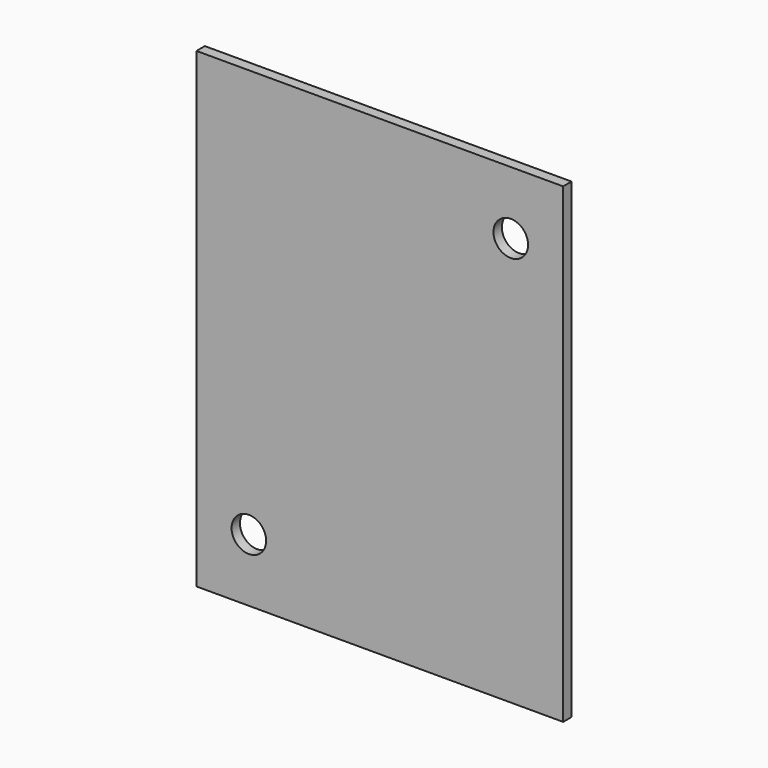
from build123d import *

# Parameters (mm, degrees)
F0_W     = 35
F0_H     = 45
F1_DEPTH = 1
F3_D     = 3.3


with BuildPart() as f1:
    # F0 (on Front) → F1 (new body)
    with BuildSketch(Plane.XZ):
        with Locations((17.5, 22.5)):
            Rectangle(F0_W, F0_H)
    extrude(amount=F1_DEPTH)

    # F3 (through all)
    with Locations(Plane.XZ.offset(1)):
        with Locations((30, 39), (5, 6)):
            Hole(F3_D / 2)


solid = f1.part
